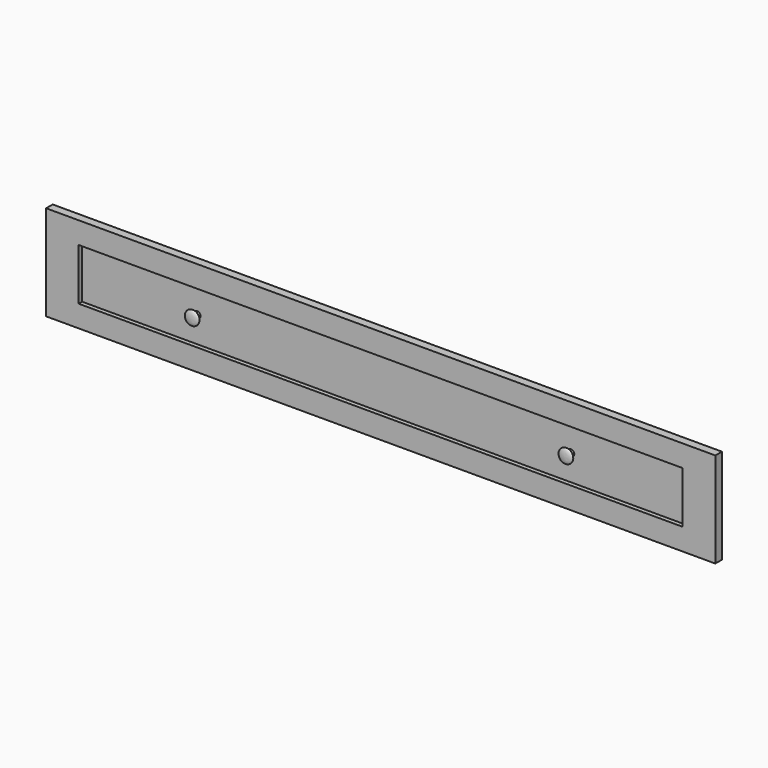
from build123d import *

# Parameters (mm, degrees)
CLONE2D007_W    = 1540
CLONE2D007_H    = 219
PAD013_DEPTH    = 19
SKETCH034_W     = 1390
SKETCH034_H     = 119
POCKET013_DEPTH = 10


with BuildPart() as part:
    # Clone2D007 → Pad013 (new body)
    with BuildSketch(Plane.XZ):
        with Locations((770, 109.5)):
            Rectangle(CLONE2D007_W, CLONE2D007_H)
    extrude(amount=PAD013_DEPTH)

    # Sketch034 (on Face6 of Pad013) → Pocket013 (cut)
    with BuildSketch(Plane.XZ.offset(19)):
        with Locations((770, 109.5)):
            Rectangle(SKETCH034_W, SKETCH034_H)
    extrude(amount=-POCKET013_DEPTH, mode=Mode.SUBTRACT)

    # Clone2D009 → Revolution004 (revolve)
    with BuildSketch(Plane(origin=(340, -9, 109.5), x_dir=(1, 0, 0), z_dir=(0, 0, 1))):
        with BuildLine():
            Line((0, 0), (0, -20))
            add(Edge.make_bspline(
                [(0, -20), (-18, -20), (-18, -9.133286), (-4.506424, -9.133286), (-7.5, 0)],
                knots=[0, 0, 0, 0, 0.5, 1, 1, 1, 1], degree=3, weights=[7, 6.116989, 5.810816, 6.060123, 5.999522]))
            Line((-7.5, 0), (0, 0))
        make_face()
    revolve(axis=Axis((340, -9, 109.5), (0, 1, 0)))

    # Clone2D008 → Revolution010 (revolve)
    with BuildSketch(Plane(origin=(1200, -9, 109.5), x_dir=(1, 0, 0), z_dir=(0, 0, 1))):
        with BuildLine():
            Line((0, 0), (0, -20))
            add(Edge.make_bspline(
                [(0, -20), (-18, -20), (-18, -9.133286), (-4.506424, -9.133286), (-7.5, 0)],
                knots=[0, 0, 0, 0, 0.5, 1, 1, 1, 1], degree=3, weights=[7, 6.116989, 5.810816, 6.060123, 5.999522]))
            Line((-7.5, 0), (0, 0))
        make_face()
    revolve(axis=Axis((1200, -9, 109.5), (0, 1, 0)))


with BuildPart() as part_1:
    # Body015 placement: moved
    add(part.part.moved(Location((10, -1, 675))))


solid = part_1.part
